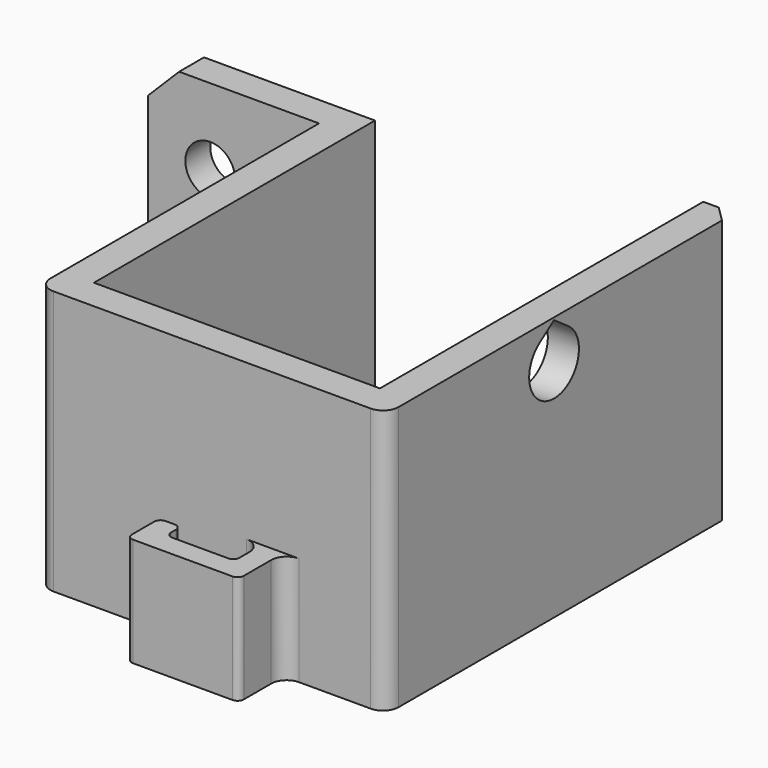
from build123d import *

# Parameters (mm, degrees)
PAD_DEPTH       = 17
SKETCH001_R     = 1.6
POCKET_DEPTH    = 5
POCKET002_DEPTH = 5
FILLET_R        = 1
CHAMFER001_SIZE = 2
CHAMFER002_SIZE = 1
PAD001_DEPTH    = 7
FILLET001_R     = 1
FILLET002_R     = 0.4


with BuildPart() as part:
    # Sketch → Pad (new body)
    with BuildSketch(Plane.XY):
        Polygon((-2, -24.6), (-2, -2), (-13, -2), (-13, 0), (0, 0), (0, -22.6), (18.4, -22.6), (18.4, 3.4), (20.4, 3.4), (20.4, -24.6), align=None)
    extrude(amount=PAD_DEPTH)

    # Sketch001 (on Face2 of Pad) → Pocket (cut)
    with BuildSketch(Plane.XZ.offset(2)):
        with Locations((-9, 3.655766)):
            Circle(SKETCH001_R)
        with Locations((-9, 12.077909)):
            Circle(SKETCH001_R)
    extrude(amount=-POCKET_DEPTH, mode=Mode.SUBTRACT)

    # Sketch003 → Pocket002 (cut)
    with BuildSketch(Plane(origin=(18.4, 0, 0), x_dir=(0, -1, 0), z_dir=(-1, 0, 0))):
        with BuildLine():
            ThreePointArc((9.952847, 16.038304), (11.1, 12.4), (12.247153, 16.038304))
            Line((11.1, 16.841549), (12.247153, 16.038304))
            Line((9.952847, 16.038304), (11.1, 16.841549))
        make_face()
    extrude(amount=-POCKET002_DEPTH, mode=Mode.SUBTRACT)

    # Fillet
    fillet_edges = [part.edges().sort_by_distance(p)[0] for p in [
        (-2, -24.6, 8.5),
        (20.4, -24.6, 8.5),
    ]]
    fillet(fillet_edges, radius=FILLET_R)

    # Chamfer001
    chamfer001_edges = [part.edges().sort_by_distance(p)[0] for p in [
        (-13, -1, 17),
        (-13, -1, 0),
    ]]
    chamfer(chamfer001_edges, length=CHAMFER001_SIZE)

    # Chamfer002
    chamfer002_edges = [part.edges().sort_by_distance(p)[0] for p in [
        (20.4, 3.4, 8.5),
    ]]
    chamfer(chamfer002_edges, length=CHAMFER002_SIZE)

    # Sketch004 (on Face1 of Chamfer002) → Pad001 (join)
    with BuildSketch(Plane(origin=(0, 0, 0), x_dir=(1, 0, 0), z_dir=(0, 0, -1))):
        Polygon((13.8, 24.6), (12.4, 24.6), (12.4, 26.8), (8, 26.8), (8, 25.6), (6.6, 25.6), (6.6, 28.2), (13.8, 28.2), align=None)
    extrude(amount=-PAD001_DEPTH)

    # Fillet001
    fillet001_edges = [part.edges().sort_by_distance(p)[0] for p in [
        (12.4, -24.6, 3.5),
        (13.8, -24.6, 3.5),
    ]]
    fillet(fillet001_edges, radius=FILLET001_R)

    # Fillet002
    fillet002_edges = [part.edges().sort_by_distance(p)[0] for p in [
        (13.8, -28.2, 3.5),
        (6.6, -28.2, 3.5),
        (6.6, -25.6, 3.5),
        (12.4, -26.8, 3.5),
        (8, -26.8, 3.5),
        (8, -25.6, 3.5),
    ]]
    fillet(fillet002_edges, radius=FILLET002_R)


solid = part.part
